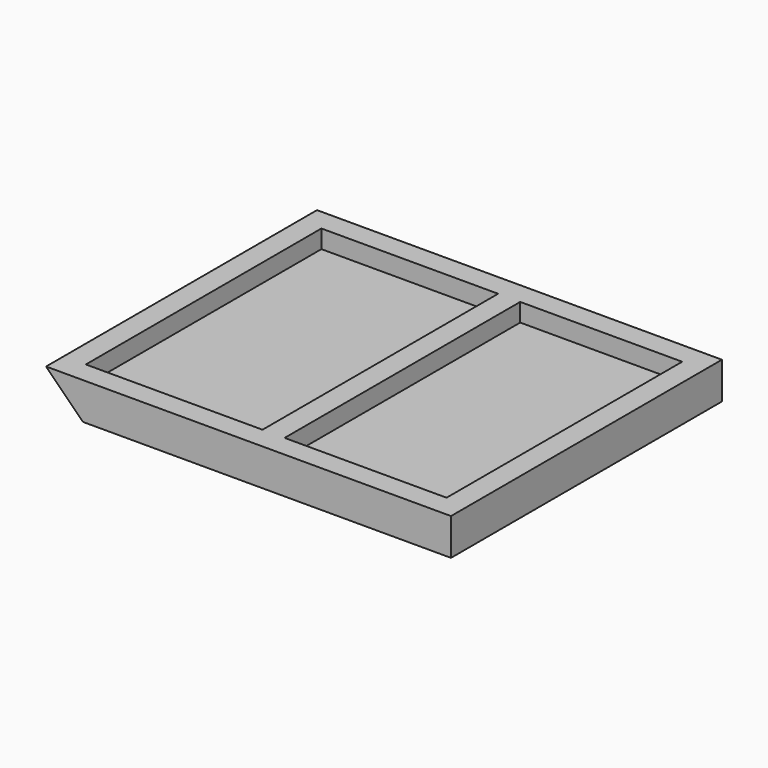
from build123d import *

# Parameters (mm, degrees)
F0_W     = 2750
F0_H     = 2300
F0_W_2   = 1200
F0_H_2   = 2000
F0_W_3   = 1100
F1_DEPTH = 125
F2_W     = 1301.708862
F2_H     = 2201.619386
F2_W_2   = 1301.310276
F2_H_2   = 2202.914714
F3_DEPTH = 1.5
F5_DEPTH = 2300


with BuildPart() as f1:
    # F0 (on Top) → F1 (new body, symmetric)
    with BuildSketch(Plane.XY):
        Rectangle(F0_W, F0_H)
        with Locations((-625, 0)):
            Rectangle(F0_W_2, F0_H_2, mode=Mode.SUBTRACT)
        with Locations((675, 0)):
            Rectangle(F0_W_3, F0_H_2, mode=Mode.SUBTRACT)
    extrude(amount=F1_DEPTH, both=True)

    # F2 (on Top) → F3 (join, symmetric)
    with BuildSketch(Plane.XY):
        with Locations((674.405493, 2.383113)):
            Rectangle(F2_W, F2_H)
        with Locations((-675.495875, 3.030777)):
            Rectangle(F2_W_2, F2_H_2)
    extrude(amount=F3_DEPTH, both=True)

    # F4 (on face) → F5 (cut, through all)
    with BuildSketch(Plane.XZ.offset(1150)):
        Polygon((-1375, 125), (-1375, -125), (-1125, -125), align=None)
    extrude(amount=-F5_DEPTH, mode=Mode.SUBTRACT)


solid = f1.part
